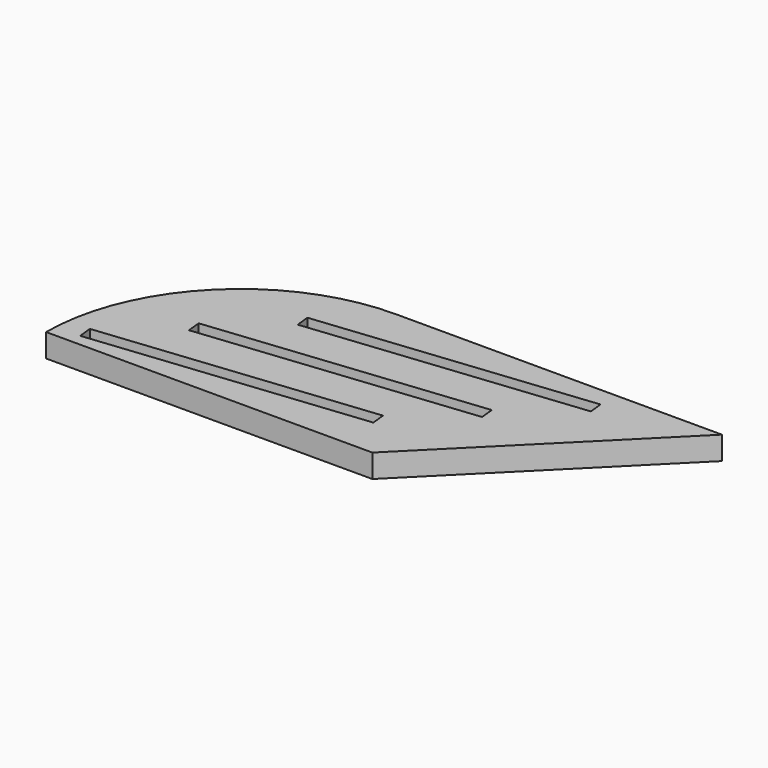
from build123d import *

# Parameters (mm, degrees)
F1_DEPTH = 3
F3_START = 1.5
F3_DEPTH = 158.5


with BuildPart() as f1:
    # F0 (on Top) → F1 (new body)
    with BuildSketch(Plane.XY):
        with BuildLine():
            ThreePointArc((25, 25), (7.3223304703, 17.6776695297), (0, 0))
            Line((0, 0), (42, 0))
            Line((42, 0), (42, 25))
            Line((42, 25), (25, 25))
        make_face()
        Polygon((42, 25), (42, 0), (67, 25), align=None)
    extrude(amount=F1_DEPTH)

    # F2 (on Top) → F3 (cut)
    with BuildSketch(Plane.XY.offset(F3_START)):
        Polygon((3.0035824282, 3.2901394117), (3.1917336621, 1.5), (38, 5.1584962144), (37.8118487661, 6.948635626), align=None)
        Polygon((10.7817570213, 11.0683140047), (10.9699082552, 9.2781745931), (45.7781745931, 12.9366708074), (45.5900233592, 14.7268102191), align=None)
        Polygon((18.5599316143, 18.8464885978), (18.7480828482, 17.0563491861), (53.5563491861, 20.7148454005), (53.3681979522, 22.5049848121), align=None)
    extrude(amount=F3_DEPTH, mode=Mode.SUBTRACT)


solid = f1.part
